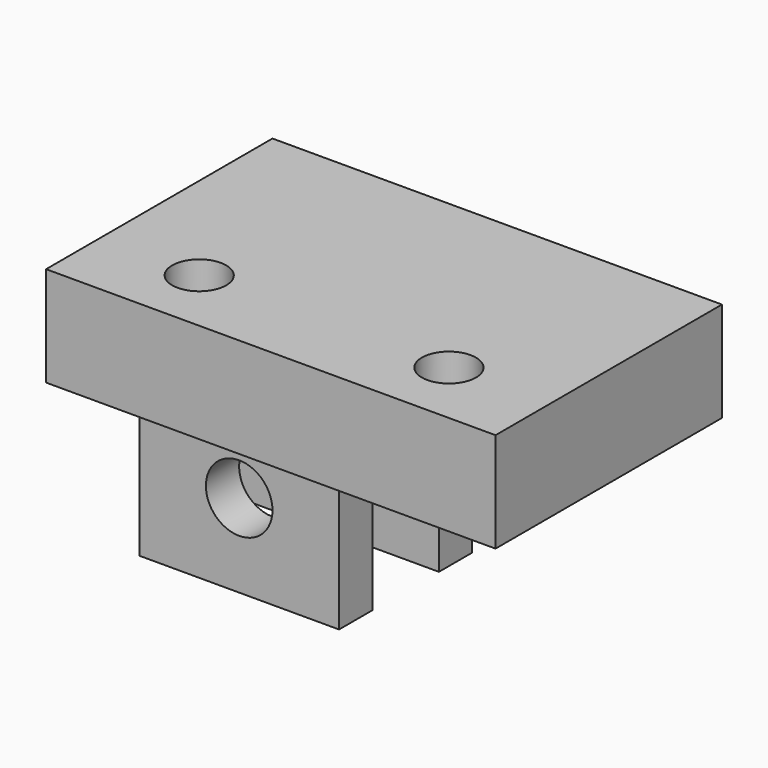
from build123d import *

# Parameters (mm, degrees)
F0_W           = 171.45
F0_H           = 107.95
F1_DEPTH       = 38.1
F3_D           = 20.6375
F3_CBORE_D     = 30.1752
F3_CBORE_DEPTH = 20.574
F2_W           = 76.2
F2_H           = 63.5
F4_DEPTH       = 76.2
F5_W           = 31.75
F5_H           = 139.7
F6_DEPTH       = 171.451
F8_D           = 25.4
F10_D          = 5.1054
F10_DEPTH      = 12.7
F10_TIP        = 1.5338169022


with BuildPart() as f1:
    # F0 (on Top) → F1 (new body)
    with BuildSketch(Plane.XY):
        Rectangle(F0_W, F0_H)
    extrude(amount=F1_DEPTH)

    # F3 (through all)
    with Locations(Plane(origin=(0, 0, 0), x_dir=(1, 0, 0), z_dir=(0, 0, -1))):
        with Locations((-47.625, 28.575), (47.625, 28.575)):
            CounterBoreHole(F3_D / 2, F3_CBORE_D / 2, F3_CBORE_DEPTH)

    # F2 (on face) → F4 (join)
    with BuildSketch(Plane(origin=(0, 0, 0), x_dir=(1, 0, 0), z_dir=(0, 0, -1))):
        with Locations((-47.625, -22.225)):
            Rectangle(F2_W, F2_H)
    extrude(amount=F4_DEPTH)

    # F5 (on face) → F6 (cut, through all)
    with BuildSketch(Plane(origin=(-85.725, 0, 0), x_dir=(0, -1, 0), z_dir=(-1, 0, 0))):
        with Locations((-22.225, -76.2)):
            Rectangle(F5_W, F5_H)
    extrude(amount=-F6_DEPTH, mode=Mode.SUBTRACT)

    # F8 (through all)
    with Locations(Plane(origin=(0, 53.975, 0), x_dir=(-1, 0, 0), z_dir=(0, 1, 0))):
        with Locations((47.625, -44.45)):
            Hole(F8_D / 2)

    # F10
    with Locations(Plane(origin=(0, 53.975, 0), x_dir=(-1, 0, 0), z_dir=(0, 1, 0))):
        with Locations((34.925, -63.5), (60.325, -63.5)):
            Hole(F10_D / 2, depth=F10_DEPTH)
            with Locations((0, 0, -(F10_DEPTH + F10_TIP / 2))):  # 118° drill point
                Cone(0, F10_D / 2, F10_TIP, mode=Mode.SUBTRACT)


solid = f1.part
